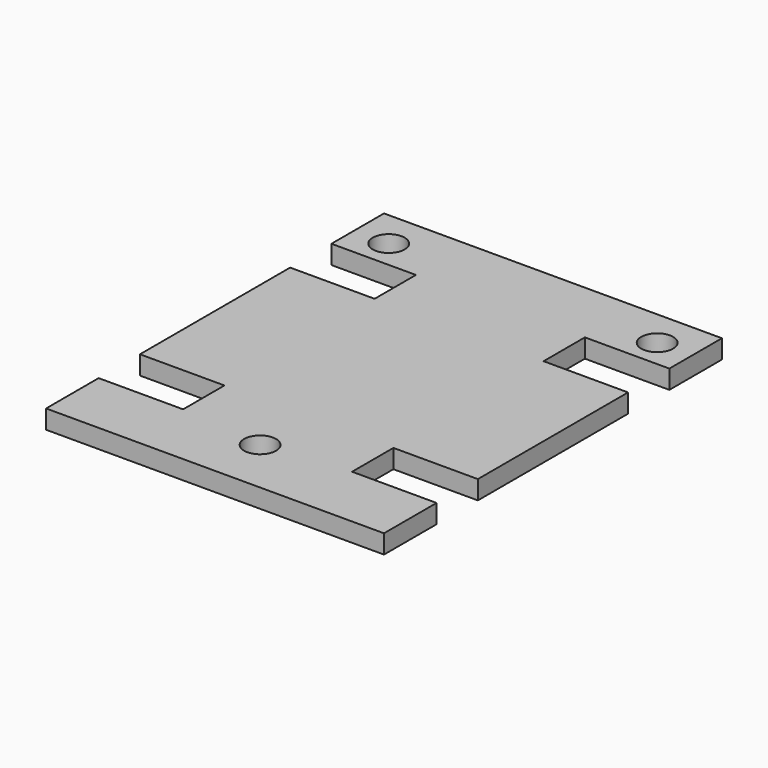
from build123d import *

# Parameters (mm, degrees)
SKETCH025_R  = 1.7
PAD021_DEPTH = 100
BOX004_W     = 36
BOX004_H     = 7
BOX004_DEPTH = 2
BOX003_W     = 18
BOX003_H     = 45
BOX003_DEPTH = 2
BOX005_W     = 36
BOX005_H     = 7
BOX005_DEPTH = 2
BOX002_W     = 36
BOX002_H     = 20
BOX002_DEPTH = 2


with BuildPart() as pad021:
    # Sketch025 → Pad021 (new body)
    with BuildSketch(Plane.XY.offset(-50)):
        with Locations((0, -19)):
            Circle(SKETCH025_R)
        with Locations((-14.3, 16)):
            Circle(SKETCH025_R)
        with Locations((14.3, 16)):
            Circle(SKETCH025_R)
    extrude(amount=PAD021_DEPTH)


with BuildPart() as chassis003:
    # Box004 → Box004 (new body)
    with BuildSketch(Plane(origin=(-18, 13, -14.4), x_dir=(1, 0, 0), z_dir=(0, 0, 1))):
        with Locations((18, 3.5)):
            Rectangle(BOX004_W, BOX004_H)
    extrude(amount=BOX004_DEPTH)


with BuildPart() as chassis002:
    # Box003 → Box003 (new body)
    with BuildSketch(Plane(origin=(-9, -25, -14.4), x_dir=(1, 0, 0), z_dir=(0, 0, 1))):
        with Locations((9, 22.5)):
            Rectangle(BOX003_W, BOX003_H)
    extrude(amount=BOX003_DEPTH)


with BuildPart() as chassis004:
    # Box005 → Box005 (new body)
    with BuildSketch(Plane(origin=(-18, -25, -14.4), x_dir=(1, 0, 0), z_dir=(0, 0, 1))):
        with Locations((18, 3.5)):
            Rectangle(BOX005_W, BOX005_H)
    extrude(amount=BOX005_DEPTH)


with BuildPart() as cut005:
    # Box002 → Box002 (new body)
    with BuildSketch(Plane(origin=(-18, -12.5, -14.4), x_dir=(1, 0, 0), z_dir=(0, 0, 1))):
        with Locations((18, 10)):
            Rectangle(BOX002_W, BOX002_H)
    extrude(amount=BOX002_DEPTH)

    # Fusion002: union chassis003, chassis002, chassis004
    add(chassis003.part)
    add(chassis002.part)
    add(chassis004.part)

    # Cut005: cut Pad021
    add(pad021.part, mode=Mode.SUBTRACT)


solid = cut005.part
